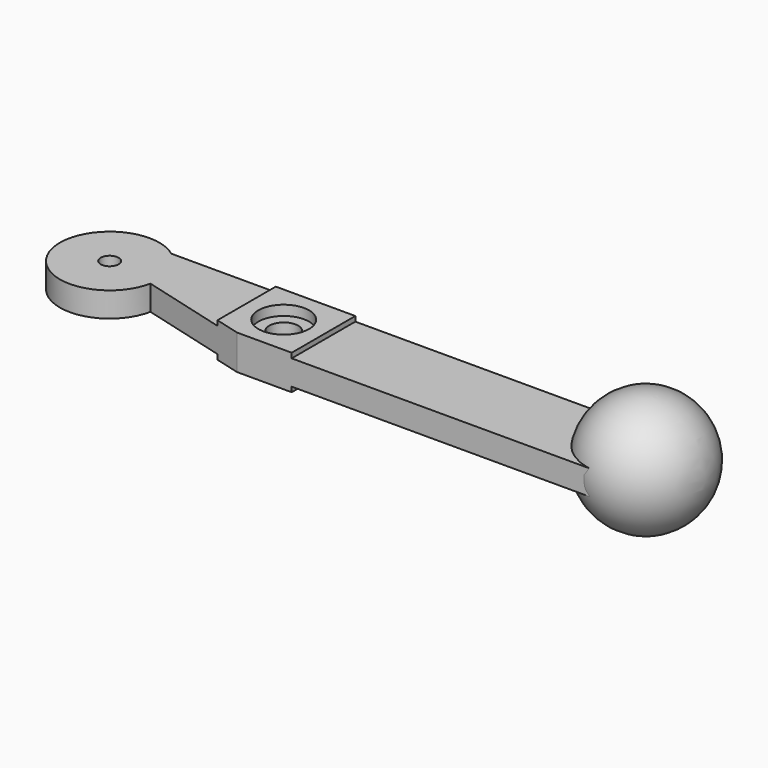
from build123d import *

# Parameters (mm, degrees)
PAD_DEPTH       = 7
SKETCH001_R     = 1.8
POCKET_DEPTH    = 7
SKETCH003_R     = 5.2
POCKET002_DEPTH = 2
SKETCH004_R     = 5.1
POCKET003_DEPTH = 2
SKETCH005_R     = 2.9
POCKET004_DEPTH = 3
SKETCH006_W     = 62
SKETCH006_H     = 25
POCKET005_DEPTH = 1
SKETCH007_W     = 62
SKETCH007_H     = 25
POCKET006_DEPTH = 1
CHAMFER_SIZE    = 0.2


with BuildPart() as body:
    # Sketch → Pad (new body)
    with BuildSketch(Plane.XY):
        with BuildLine():
            Line((108, 16), (108, 0))
            Line((108, 0), (35, 0))
            Line((12.797959, 6), (35, 0))
            ThreePointArc((9, 16), (-6.348469, 4.44949), (12.797959, 6))
            Line((9, 16), (108, 16))
        make_face()
    extrude(amount=PAD_DEPTH)

    # Sketch001 (on Face7 of Pad) → Pocket (cut)
    with BuildSketch(Plane.XY.offset(7)):
        with Locations((3, 8)):
            Circle(SKETCH001_R)
    extrude(amount=-POCKET_DEPTH, mode=Mode.SUBTRACT)

    # Sketch003 → Pocket002 (cut)
    with BuildSketch(Plane(origin=(0, 0, 0), x_dir=(1, 0, 0), z_dir=(0, 0, -1))):
        with Locations((38, -8)):
            Circle(SKETCH003_R)
    extrude(amount=-POCKET002_DEPTH, mode=Mode.SUBTRACT)

    # Sketch004 (on Face5 of Pocket002) → Pocket003 (cut)
    with BuildSketch(Plane.XY.offset(7)):
        with Locations((38, 8)):
            Circle(SKETCH004_R)
    extrude(amount=-POCKET003_DEPTH, mode=Mode.SUBTRACT)

    # Sketch005 (on Face12 of Pocket003) → Pocket004 (cut)
    with BuildSketch(Plane.XY.offset(5)):
        with Locations((38, 8)):
            Circle(SKETCH005_R)
    extrude(amount=-POCKET004_DEPTH, mode=Mode.SUBTRACT)

    # Sketch006 (on Face4 of Pocket004) → Pocket005 (cut)
    with BuildSketch(Plane(origin=(0, 0, 0), x_dir=(1, 0, 0), z_dir=(0, 0, -1))):
        with Locations((77, -12.5)):
            Rectangle(SKETCH006_W, SKETCH006_H)
        Polygon((30, 0), (30, -25), (-10, -25), (-10, 0), (-10, 5), (30, 5), align=None)
    extrude(amount=-POCKET005_DEPTH, mode=Mode.SUBTRACT)

    # Sketch007 (on Face4 of Pocket005) → Pocket006 (cut)
    with BuildSketch(Plane.XY.offset(7)):
        Polygon((-10, 25), (30, 25), (30, 0), (30, -5), (-10, -5), (-10, 0), align=None)
        with Locations((77, 12.5)):
            Rectangle(SKETCH007_W, SKETCH007_H)
    extrude(amount=-POCKET006_DEPTH, mode=Mode.SUBTRACT)

    # Chamfer
    chamfer_edges = [body.edges().sort_by_distance(p)[0] for p in [
        (32.8, 8, 0),
    ]]
    chamfer(chamfer_edges, length=CHAMFER_SIZE)


with BuildPart() as sphere:
    # Sphere → Sphere (revolve)
    with BuildSketch(Plane(origin=(108, 11.5, 3.5), x_dir=(1, 0, 0), z_dir=(0, -1, 0))):
        with BuildLine():
            ThreePointArc((0, -12), (12, 0), (0, 12))
            Line((0, 12), (0, -12))
        make_face()
    revolve(axis=Axis((108, 11.5, 3.5), (0, 0, 1)))


solid = Compound([body.part, sphere.part])
